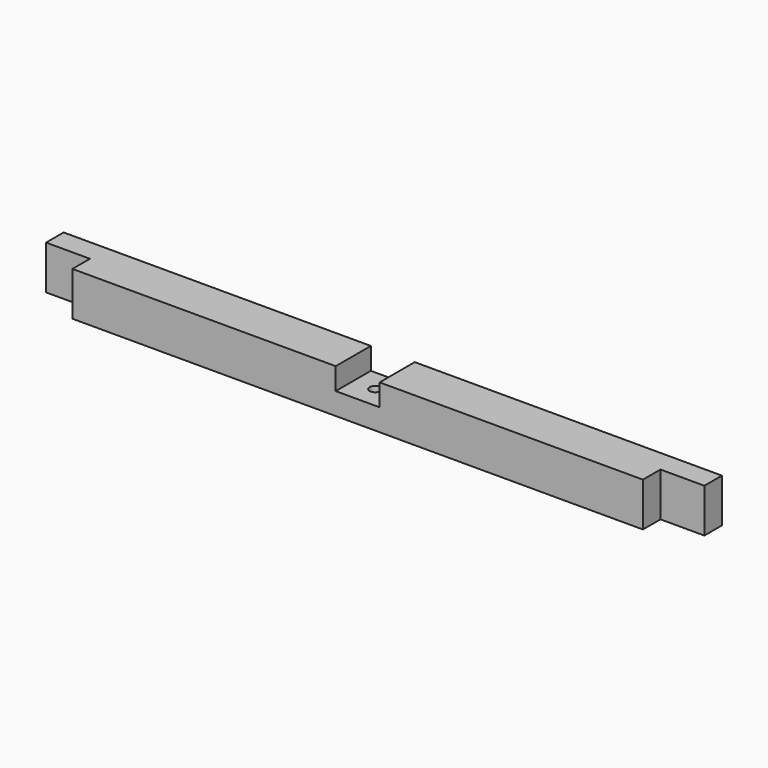
from build123d import *

# Parameters (mm, degrees)
SKETCH018_W              = 40
SKETCH018_H              = 40
PAD018_DEPTH             = 600
SKETCH019_W              = 40
SKETCH019_H              = 40
POCKET_DEPTH             = 20
SKETCH020_W              = 40
SKETCH020_H              = 40
POCKET001_DEPTH          = 20
SKETCH064_R              = 5
POCKET019_DEPTH          = 40.001
CLONE009_PLACEMENT_ANGLE = 90


with BuildPart() as part:
    # Sketch018 → Pad018 (new body)
    with BuildSketch(Plane.XZ):
        with Locations((20, 280)):
            Rectangle(SKETCH018_W, SKETCH018_H)
    extrude(amount=PAD018_DEPTH)

    # Sketch019 (on Face4 of Pad018) → Pocket (cut)
    with BuildSketch(Plane(origin=(0, 0, 0), x_dir=(0, 0, -1), z_dir=(-1, 0, 0))):
        with Locations((-280, 580)):
            Rectangle(SKETCH019_W, SKETCH019_H)
        with Locations((-280, 20)):
            Rectangle(SKETCH019_W, SKETCH019_H)
    extrude(amount=-POCKET_DEPTH, mode=Mode.SUBTRACT)

    # Sketch020 (on Face1 of Pocket) → Pocket001 (cut)
    with BuildSketch(Plane(origin=(0, 0, 300), x_dir=(-1, 0, 0), z_dir=(0, 0, 1))):
        with Locations((-20, 300)):
            Rectangle(SKETCH020_W, SKETCH020_H)
    extrude(amount=-POCKET001_DEPTH, mode=Mode.SUBTRACT)

    # Sketch064 (on Face8 of Pocket001) → Pocket019 (cut, through all)
    with BuildSketch(Plane(origin=(0, 0, 260), x_dir=(1, 0, 0), z_dir=(0, 0, -1))):
        with Locations((20, 300)):
            Circle(SKETCH064_R)
    extrude(amount=-POCKET019_DEPTH, mode=Mode.SUBTRACT)


with BuildPart() as part_1:
    # Clone009 placement: moved
    add(part.part.moved(Location((900, -1500, 0))).rotate(Axis((900, -1500, 0), (0, 0, 1)), CLONE009_PLACEMENT_ANGLE))


with BuildPart() as part_2:
    # Clone014 placement: moved
    add(part_1.part.moved(Location((0, 0, 450))))


solid = part_2.part
